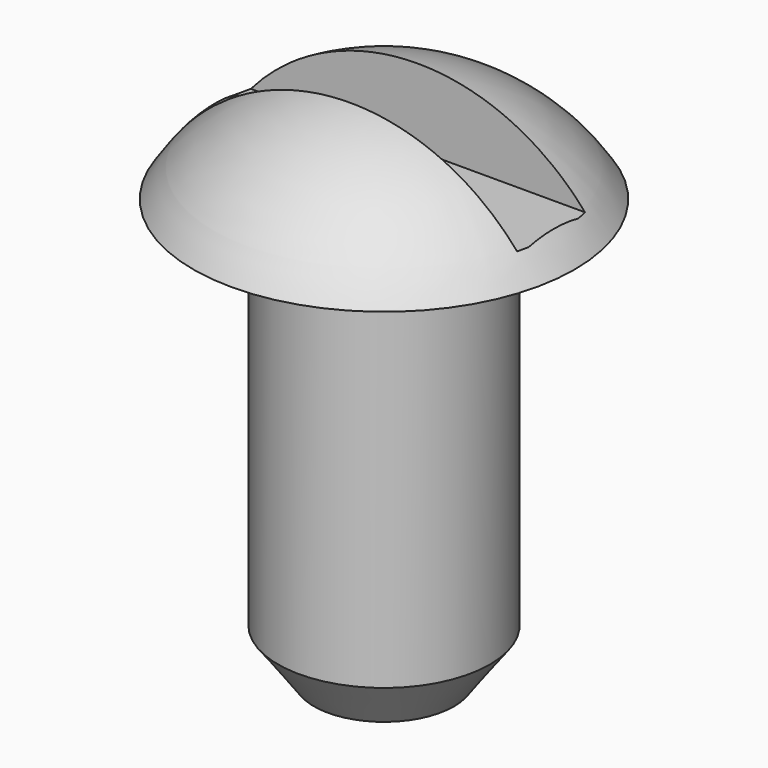
from build123d import *

# Parameters (mm, degrees)
F3_W     = 10.16
F3_H     = 2.54
F4_DEPTH = 76.2


with BuildPart() as f1:
    # F0 (on Front) → F1 (revolve)
    with BuildSketch(Plane.XZ):
        with BuildLine():
            Line((0, 15.875), (0, 0))
            Line((0, 0), (2.100712, 0))
            Line((2.100712, 0), (3.175, 1.455346))
            Line((3.175, 1.455346), (3.175, 12.7))
            Line((3.175, 12.7), (5.119534, 12.7))
            Line((5.119534, 12.7), (5.715, 12.7))
            ThreePointArc((5.715, 12.7), (3.270292, 15.030526), (0, 15.875))
        make_face()
    revolve(axis=Axis((0, 0, 7.9375), (0, 0, 1)))

    # F3 (on offset) → F4 (cut)
    with BuildSketch(Plane.XY.offset(13.462)):
        Rectangle(F3_W, F3_H)
    extrude(amount=F4_DEPTH, mode=Mode.SUBTRACT)


solid = f1.part
